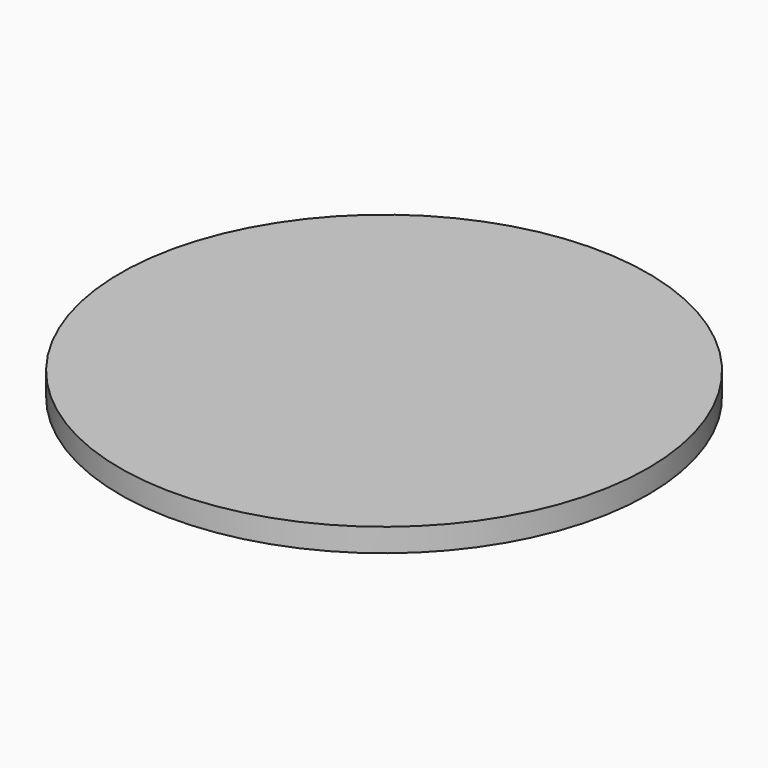
from build123d import *


with BuildPart() as f1:
    # F0 (on Front) → F1 (revolve)
    with BuildSketch(Plane.XZ):
        with BuildLine():
            ThreePointArc((0, -38.0125), (2.758494, -37.90418), (5.5, -37.579887))
            Line((5.5, -37.579887), (0, -37.579887))
            Line((0, -37.579887), (0, -38.0125))
        make_face()
        Polygon((7.8227, -37.579887), (5.5, -37.579887), (5.5, -38.0125), align=None)
        Polygon((9.6089, -37.5795), (7.8227, -37.579887), (7.8227, -38.0125), align=None)
        Polygon((11.1201, -37.5795), (9.6089, -37.5795), (9.6089, -38.012113), align=None)
        Polygon((12.4568, -37.5795), (11.1201, -37.5795), (11.1201, -38.0125), align=None)
        Polygon((13.6703, -37.5795), (12.4568, -37.5795), (12.4568, -38.0125), align=None)
        Polygon((14.791, -37.5795), (13.6703, -37.5795), (13.6703, -38.0125), align=None)
        Polygon((14.791, -38.0125), (15.8386, -37.5795), (14.791, -37.5795), align=None)
        Polygon((15.8386, -38.0125), (16.8268, -37.5795), (15.8386, -37.5795), align=None)
        Polygon((16.8268, -38.0125), (17.7655, -37.5795), (16.8268, -37.5795), align=None)
        Polygon((0, -37.579887), (5.5, -37.579887), (7.8227, -37.579887), (9.6089, -37.5795), (11.1201, -37.5795), (12.4568, -37.5795), (13.6703, -37.5795), (14.791, -37.5795), (15.8386, -37.5795), (16.8268, -37.5795), (17.7655, -37.5795), (17.7655, -36.012887), (0, -36.012887), align=None)
    revolve(axis=Axis((0, 0, -37.796193), (0, 0, -1)))


solid = f1.part
